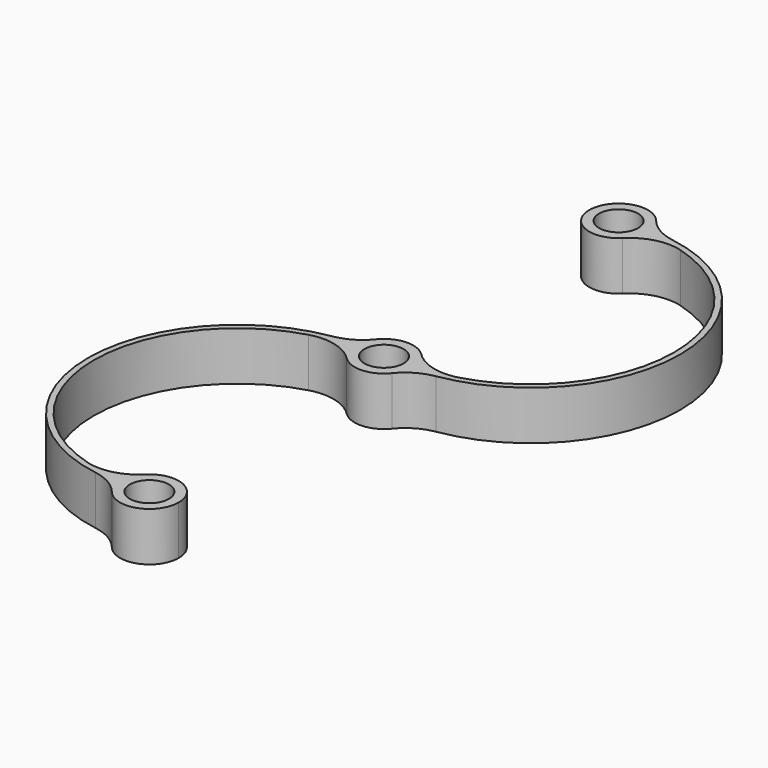
from build123d import *

# Parameters (mm, degrees)
F1_DEPTH = 10
F2_R     = 10
F3_R     = 4
F4_DEPTH = 10


with BuildPart() as f1:
    # F0 (on Top) → F1 (new body)
    with BuildSketch(Plane.XY):
        with BuildLine():
            ThreePointArc((5.9699246226, 59.4), (5.9924764387, 59.6996233496), (6, 60))
            ThreePointArc((6, 60), (5.9924764387, 60.3003766504), (5.9699246226, 60.6))
            ThreePointArc((5.9699246226, 60.6), (-6, 60), (5.9699246226, 59.4))
        make_face()
        with BuildLine():
            ThreePointArc((5.9699246226, 60.6), (5.9924764387, 60.3003766504), (6, 60))
            ThreePointArc((6, 60), (5.9924764387, 59.6996233496), (5.9699246226, 59.4))
            ThreePointArc((5.9699246226, 59.4), (35.3699246226, 30), (5.9699246226, 0.6))
            ThreePointArc((5.9699246226, 0.6), (5.9924764387, 0.3003766504), (6, 0))
            ThreePointArc((6, 0), (5.9924764387, -0.3003766504), (5.9699246226, -0.6))
            ThreePointArc((5.9699246226, -0.6), (36.5699246226, 30), (5.9699246226, 60.6))
        make_face()
        with BuildLine():
            ThreePointArc((-5.9699246226, -0.6), (0, -6), (5.9699246226, -0.6))
            ThreePointArc((5.9699246226, -0.6), (5.9924764387, -0.3003766504), (6, 0))
            ThreePointArc((6, 0), (5.9924764387, 0.3003766504), (5.9699246226, 0.6))
            ThreePointArc((5.9699246226, 0.6), (0, 6), (-5.9699246226, 0.6))
            ThreePointArc((-5.9699246226, 0.6), (-6, 0), (-5.9699246226, -0.6))
        make_face()
        with BuildLine():
            ThreePointArc((-5.9699246226, -59.4), (-35.3699246226, -30), (-5.9699246226, -0.6))
            ThreePointArc((-5.9699246226, -0.6), (-6, 0), (-5.9699246226, 0.6))
            ThreePointArc((-5.9699246226, 0.6), (-36.5699246226, -30), (-5.9699246226, -60.6))
            ThreePointArc((-5.9699246226, -60.6), (-6, -60), (-5.9699246226, -59.4))
        make_face()
        with BuildLine():
            ThreePointArc((6, -60), (0.3003766504, -54.0075235613), (-5.9699246226, -59.4))
            ThreePointArc((-5.9699246226, -59.4), (-6, -60), (-5.9699246226, -60.6))
            ThreePointArc((-5.9699246226, -60.6), (0.3003766504, -65.9924764387), (6, -60))
        make_face()
    extrude(amount=F1_DEPTH)

    # F2
    f2_edges = [f1.edges().sort_by_distance(p)[0] for p in [
        (5.969925, -0.6, 5),
        (5.969925, 59.4, 5),
        (5.969925, 0.6, 5),
        (5.969925, 60.6, 5),
        (-5.969925, -60.6, 5),
        (-5.969925, -0.6, 5),
        (-5.969925, -59.4, 5),
        (-5.969925, 0.6, 5),
    ]]
    fillet(f2_edges, radius=F2_R)

    # F3 (on face) → F4 (cut, through all)
    with BuildSketch(Plane.XY.offset(10)):
        Circle(F3_R)
        with Locations((0, 60)):
            Circle(F3_R)
        with Locations((0, -60)):
            Circle(F3_R)
    extrude(amount=-F4_DEPTH, mode=Mode.SUBTRACT)


solid = f1.part
